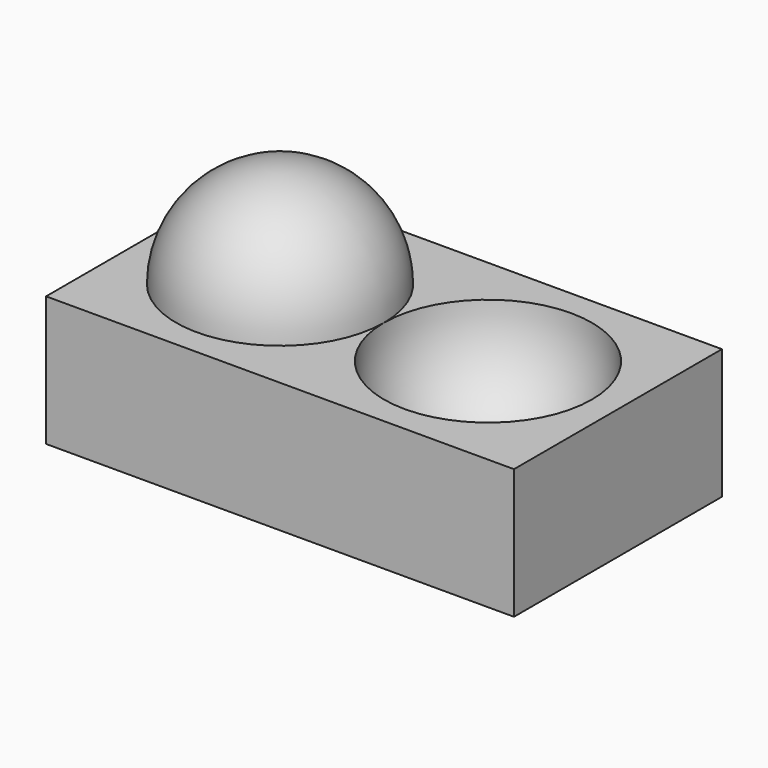
from build123d import *

# Parameters (mm, degrees)
BOX_W     = 45
BOX_H     = 25
BOX_DEPTH = 12.5


with BuildPart() as sphere001:
    # Sphere001 → Sphere001 (revolve)
    with BuildSketch(Plane(origin=(30, 0, 0), x_dir=(1, 0, 0), z_dir=(0, -1, 0))):
        with BuildLine():
            ThreePointArc((0, -10), (10, 0), (0, 10))
            Line((0, 10), (0, -10))
        make_face()
    revolve(axis=Axis((30, 0, 0), (0, 0, 1)))


with BuildPart() as cube:
    # Box → Box (new body)
    with BuildSketch(Plane(origin=(-2.5, -12.5, -12.5), x_dir=(1, 0, 0), z_dir=(0, 0, 1))):
        with Locations((22.5, 12.5)):
            Rectangle(BOX_W, BOX_H)
    extrude(amount=BOX_DEPTH)


with BuildPart() as cut:
    # Sphere → Sphere (revolve)
    with BuildSketch(Plane(origin=(10, 0, 0), x_dir=(1, 0, 0), z_dir=(0, -1, 0))):
        with BuildLine():
            ThreePointArc((0, -10), (10, 0), (0, 10))
            Line((0, 10), (0, -10))
        make_face()
    revolve(axis=Axis((10, 0, 0), (0, 0, 1)))

    # Fusion: union Cube
    add(cube.part)

    # Cut: cut Sphere001
    add(sphere001.part, mode=Mode.SUBTRACT)


solid = cut.part
